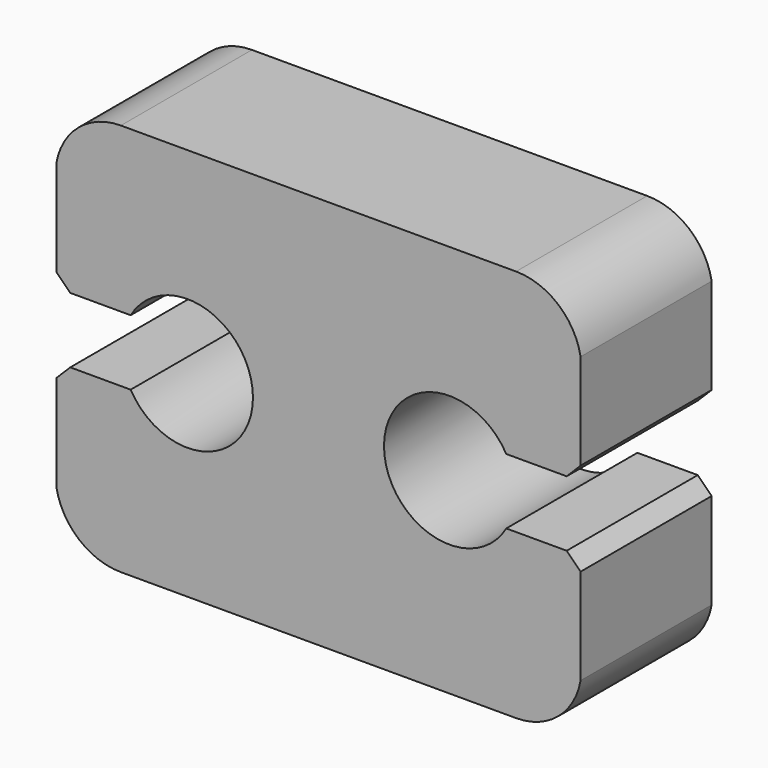
from build123d import *

# Parameters (mm, degrees)
F1_DEPTH = 25


with BuildPart() as f1:
    # F0 (on Front) → F1 (new body)
    with BuildSketch(Plane.XZ):
        with BuildLine():
            Line((30.154407, 30), (0, 30))
            Line((0, 30), (-30.154407, 30))
            ThreePointArc((-30.154407, 30), (-36.576823, 27.665023), (-40, 21.750515))
            Line((-40, 21.750515), (-40, 7.12132))
            Line((-40, 7.12132), (-37.87868, 5))
            Line((-37.87868, 5), (-28.660254, 5))
            ThreePointArc((-28.660254, 5), (-10, 0), (-28.660254, -5))
            Line((-28.660254, -5), (-37.87868, -5))
            Line((-37.87868, -5), (-40, -7.12132))
            Line((-40, -7.12132), (-40, -21.750515))
            ThreePointArc((-40, -21.750515), (-36.576823, -27.665023), (-30.154407, -30))
            Line((-30.154407, -30), (0, -30))
            Line((0, -30), (30.154407, -30))
            ThreePointArc((30.154407, -30), (36.576823, -27.665023), (40, -21.750515))
            Line((40, -21.750515), (40, -7.12132))
            Line((40, -7.12132), (37.87868, -5))
            Line((37.87868, -5), (28.660254, -5))
            ThreePointArc((28.660254, -5), (10, 0), (28.660254, 5))
            Line((28.660254, 5), (37.87868, 5))
            Line((37.87868, 5), (40, 7.12132))
            Line((40, 7.12132), (40, 21.750515))
            ThreePointArc((40, 21.750515), (36.576823, 27.665023), (30.154407, 30))
        make_face()
    extrude(amount=F1_DEPTH)


solid = f1.part
